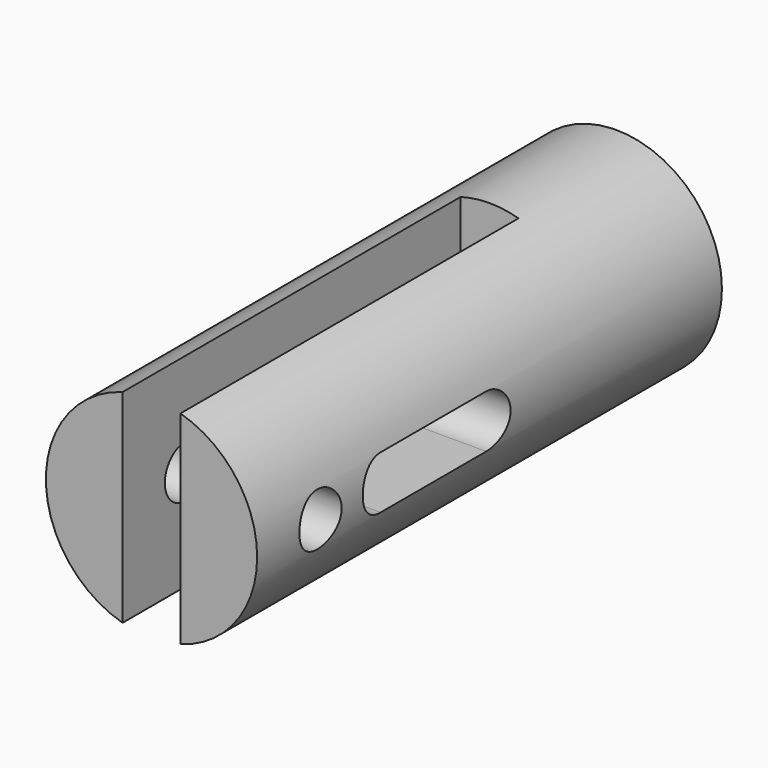
from build123d import *

# Parameters (mm, degrees)
F0_R     = 12.7
F1_DEPTH = 69.85
F2_D     = 6.5278
F3_R     = 3.2639
F4_DEPTH = 50.8
F5_R     = 3.175
F6_DEPTH = 12.7
F8_DEPTH = 12.7


with BuildPart() as f1:
    # F0 (on Front) → F1 (new body)
    with BuildSketch(Plane.XZ):
        Circle(F0_R)
    extrude(amount=F1_DEPTH)

    # F2 (through all)
    with Locations(Plane(origin=(0, 0, 0), x_dir=(1, 0, 0), z_dir=(0, 1, 0))):
        with Locations((0, 0)):
            Hole(F2_D / 2)

    # F3 (on face) → F4 (cut)
    with BuildSketch(Plane.XZ.offset(69.85)):
        with BuildLine():
            ThreePointArc((0, 12.7), (-1.7567894036, 12.5779048729), (-3.4798, 12.2139670853))
            Line((-3.4798, 12.2139670853), (-3.4798, -12.2139670853))
            ThreePointArc((-3.4798, -12.2139670853), (-1.7567894036, -12.5779048729), (0, -12.7))
            ThreePointArc((0, -12.7), (1.7567894036, -12.5779048729), (3.4798, -12.2139670853))
            Line((3.4798, -12.2139670853), (3.4798, 12.2139670853))
            ThreePointArc((3.4798, 12.2139670853), (1.7567894036, 12.5779048729), (0, 12.7))
        make_face()
        Circle(F3_R, mode=Mode.SUBTRACT)
        with BuildLine():
            ThreePointArc((0, 12.7), (-1.7567894036, 12.5779048729), (-3.4798, 12.2139670853))
            Line((-3.4798, 12.2139670853), (-3.4798, -12.2139670853))
            ThreePointArc((-3.4798, -12.2139670853), (-1.7567894036, -12.5779048729), (0, -12.7))
            ThreePointArc((0, -12.7), (1.7567894036, -12.5779048729), (3.4798, -12.2139670853))
            Line((3.4798, -12.2139670853), (3.4798, 12.2139670853))
            ThreePointArc((3.4798, 12.2139670853), (1.7567894036, 12.5779048729), (0, 12.7))
        make_face()
        Circle(F3_R, mode=Mode.SUBTRACT)
    extrude(amount=-F4_DEPTH, mode=Mode.SUBTRACT)

    # F5 (on Right) → F6 (cut, symmetric)
    with BuildSketch(Plane.YZ):
        with Locations((-60.325, 0)):
            Circle(F5_R)
    extrude(amount=F6_DEPTH, both=True, mode=Mode.SUBTRACT)

    # F7 (on Right) → F8 (cut, symmetric)
    with BuildSketch(Plane.YZ):
        with BuildLine():
            Line((-34.925, 3.2131049847), (-50.8, 3.2131049847))
            ThreePointArc((-50.8, 3.2131049847), (-53.975, 0.0381049847), (-50.8, -3.1368950153))
            Line((-50.8, -3.1368950153), (-34.925, -3.1368950153))
            ThreePointArc((-34.925, -3.1368950153), (-31.75, 0.0381049847), (-34.925, 3.2131049847))
        make_face()
    extrude(amount=F8_DEPTH, both=True, mode=Mode.SUBTRACT)


solid = f1.part
